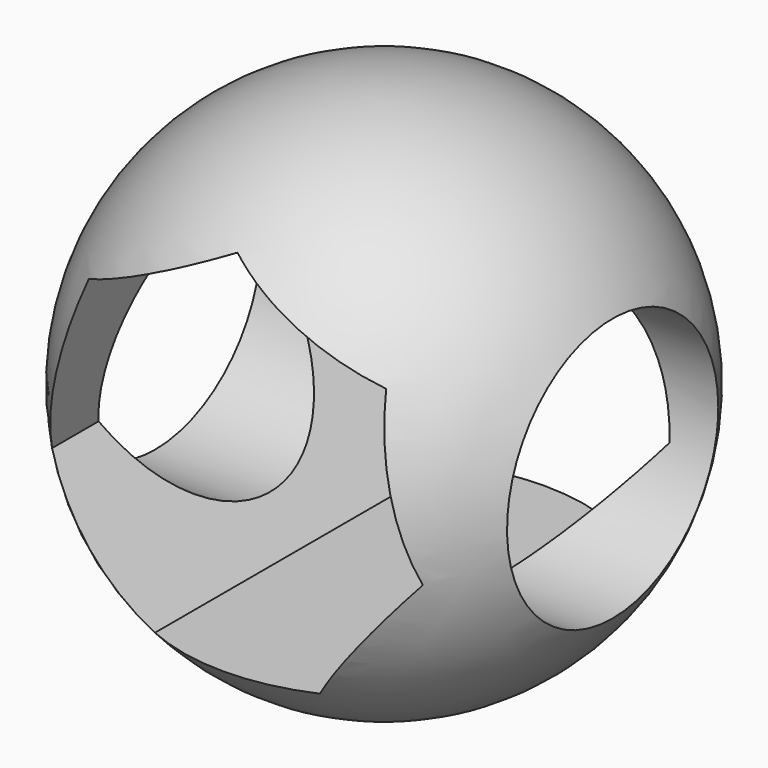
from build123d import *

# Parameters (mm, degrees)
F3_DEPTH      = 40.001
F3_DEPTH_BACK = 40.001
F4_R          = 20
F5_DEPTH      = 40.001
F5_DEPTH_BACK = 40.001


with BuildPart() as f1:
    # F0 (on Front) → F1 (revolve)
    with BuildSketch(Plane.XZ):
        with BuildLine():
            ThreePointArc((0, 40), (-40, 0), (0, -40))
            Line((0, -40), (0, 40))
        make_face()
    revolve(axis=Axis((0, 0, 0), (0, 0, 1)))

    # F2 (on Front) → F3 (cut, two sides)
    with BuildSketch(Plane.XZ) as f3_sk:
        Polygon((12.5, -25.9565174572), (28.0872450465, -6.4107303955), (22.5242216976, 17.9624674091), (0, 28.809560887), (-22.5242216976, 17.9624674091), (-28.0872450465, -6.4107303955), (-12.5, -25.9565174572), align=None)
    extrude(amount=-F3_DEPTH, mode=Mode.SUBTRACT)
    extrude(f3_sk.sketch, amount=F3_DEPTH_BACK, mode=Mode.SUBTRACT)

    # F4 (on Right) → F5 (cut, two sides)
    with BuildSketch(Plane.YZ) as f5_sk:
        Circle(F4_R)
    extrude(amount=-F5_DEPTH, mode=Mode.SUBTRACT)
    extrude(f5_sk.sketch, amount=F5_DEPTH_BACK, mode=Mode.SUBTRACT)


solid = f1.part
